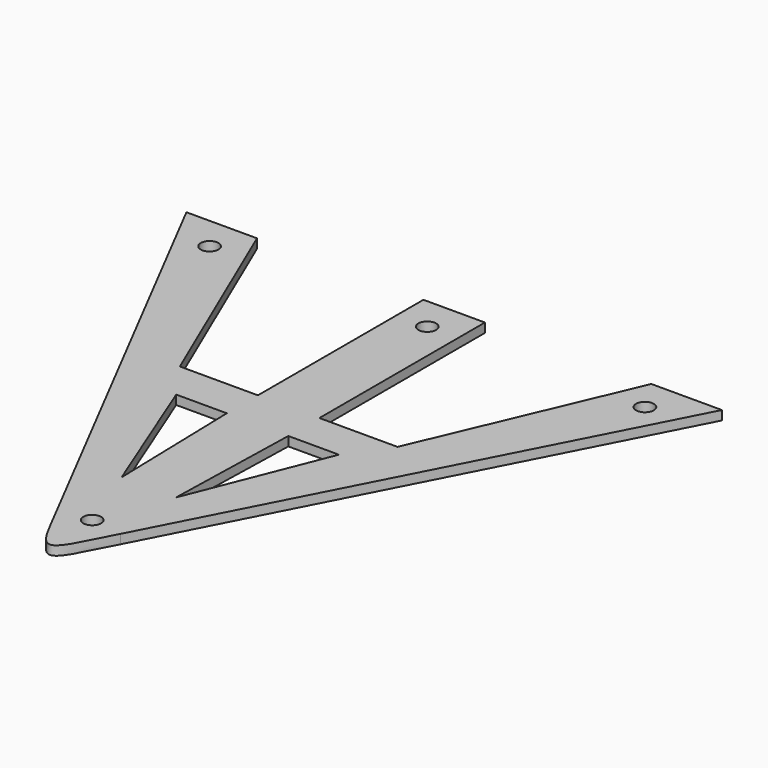
from build123d import *

# Parameters (mm, degrees)
F1_DEPTH   = 3
F4_D       = 5.8
F4_ON_F2_D = 5.8


with BuildPart() as f1:
    # F0 (on Top) → F1 (new body)
    with BuildSketch(Plane.XY):
        with BuildLine():
            add(Edge.make_bspline(
                [(10.4103045447, -67.024596429), (8.982228674, -69.7149249082), (6.3151262234, -75.1432740364), (-0.0293251038, -86.7211019833), (-6.4479244726, -74.8137621783), (-9.3542937571, -69.1019658828), (-10.9111016264, -66.0546038255)],
                knots=[0, 0, 0, 0, 0.2518062745, 0.4931803978, 0.7376570715, 1, 1, 1, 1], degree=3))
            Line((10.4103045447, -67.024596429), (87.4111636015, 82.118173113))
            Line((87.4111636015, 82.118173113), (64.3657235353, 82.118173113))
            Line((64.3657235353, 82.118173113), (35.5318893309, 14.5721204152))
            Line((35.5318893309, 14.5721204152), (10.0382260192, 14.5721204152))
            Line((10.0382260192, 14.5721204152), (10.0382260192, 82.118173113))
            Line((10.0382260192, 82.118173113), (0, 82.118173113))
            Line((0, 82.118173113), (-10.0382260192, 82.118173113))
            Line((-10.0382260192, 82.118173113), (-10.0382260192, 14.5721204152))
            Line((-10.0382260192, 14.5721204152), (-35.5318893309, 14.5721204152))
            Line((-35.5318893309, 14.5721204152), (-64.3657235353, 82.118173113))
            Line((-64.3657235353, 82.118173113), (-87.4111636015, 82.118173113))
            Line((-87.4111636015, 82.118173113), (-10.9111016264, -66.0546038255))
        make_face()
        Polygon((-10.0382260192, 1.8761669675), (-8.8880723342, -42.5141826272), (-26.5612563327, 1.8761669675), align=None, mode=Mode.SUBTRACT)
        Polygon((8.8880723342, -42.5141826272), (10.0382260192, 1.8761669675), (26.5612563327, 1.8761669675), align=None, mode=Mode.SUBTRACT)
    extrude(amount=F1_DEPTH)

    # F4 (through all)
    with Locations(Plane(origin=(0, 0, 0), x_dir=(1, 0, 0), z_dir=(0, 0, -1))):
        with Locations((-71.0588246584, -71.1358040571), (0, -71.1358040571), (71.0588246584, -71.1358040571)):
            Hole(F4_D / 2)

    # F4 on F2 (through all)
    with Locations(Plane(origin=(0, 0, 0), x_dir=(1, 0, 0), z_dir=(0, 0, -1))):
        with Locations((0, 65.6056776643)):
            Hole(F4_ON_F2_D / 2)


solid = f1.part
